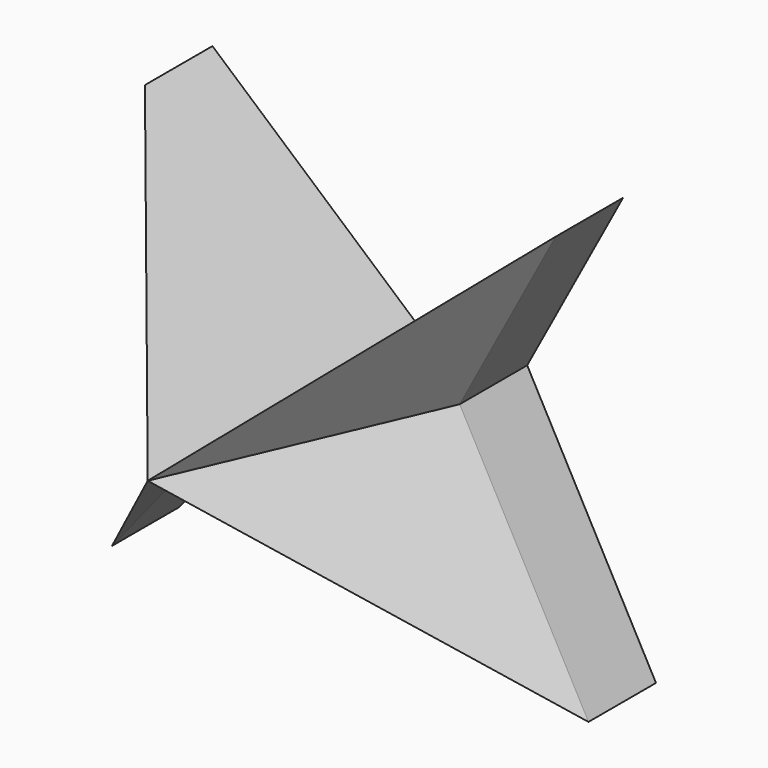
from build123d import *

# Parameters (mm, degrees)
F1_DEPTH = 25


with BuildPart() as f1:
    # F0 (on Front) → F1 (new body)
    with BuildSketch(Plane.XZ):
        Polygon((60.819678, 52.930329), (0, 0), (-60.819678, 52.930329), (-32.418031, 0), (-70.57377, -70.430331), (-32.418031, -23.094265), (32.418031, -23.094265), (70.57377, -70.430331), (32.418031, 0), align=None)
    extrude(amount=F1_DEPTH)

    # F1_face (on face) → F4 section 0
    with BuildSketch(Plane(origin=(0, -25, -3.53806), x_dir=(1, 0, 0), z_dir=(0, -1, 0)), mode=Mode.PRIVATE) as f4_s0:
        Polygon((-60.819678, 56.468389), (-32.418031, 3.53806), (-70.57377, -66.892271), (-32.418031, -19.556205), (32.418031, -19.556205), (70.57377, -66.892271), (32.418031, 3.53806), (60.819678, 56.468389), (0, 3.53806), align=None)
    loft([f4_s0.sketch, Vertex(0, -100, 0)])


solid = f1.part
